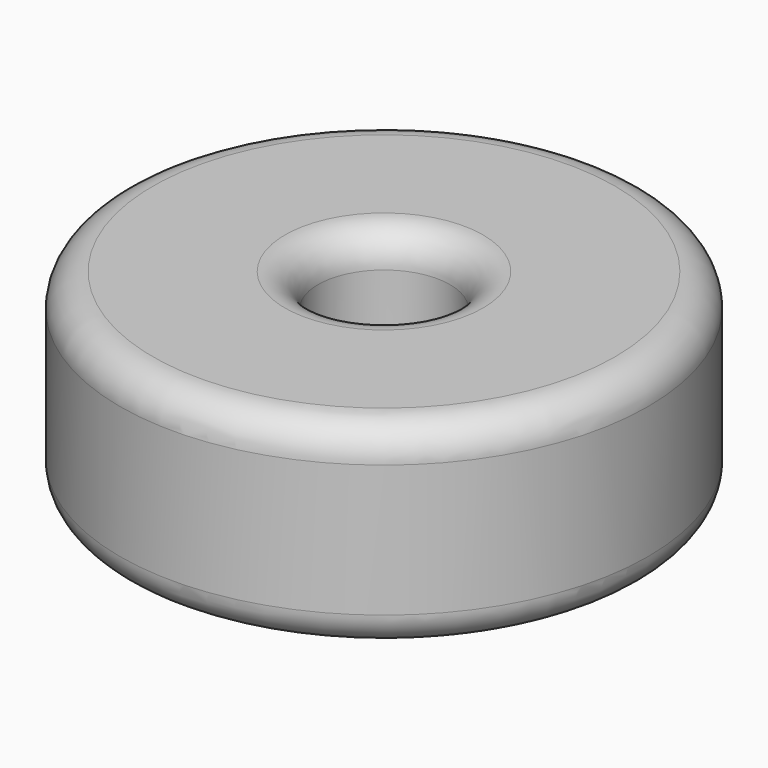
from build123d import *


with BuildPart() as f3:
    # F3: sweep along a path in F2
    with BuildLine(Plane.XY.offset(19.05)) as f3_path:
        CenterArc((0, 0), 25.4, 0, 360)
    # F0 (on Front) → F3 (sweep)
    with BuildSketch(Plane.XZ):
        with BuildLine():
            ThreePointArc((12.7, 6.35), (14.5598719395, 1.8598719395), (19.05, 0))
            Line((19.05, 0), (44.45, 0))
            ThreePointArc((44.45, 0), (48.9401280605, 1.8598719395), (50.8, 6.35))
            Line((50.8, 6.35), (50.8, 31.75))
            ThreePointArc((50.8, 31.75), (48.9401280605, 36.2401280605), (44.45, 38.1))
            Line((44.45, 38.1), (19.05, 38.1))
            ThreePointArc((19.05, 38.1), (14.5598719395, 36.2401280605), (12.7, 31.75))
            Line((12.7, 31.75), (12.7, 6.35))
        make_face()
    sweep(path=f3_path.line)


solid = f3.part
